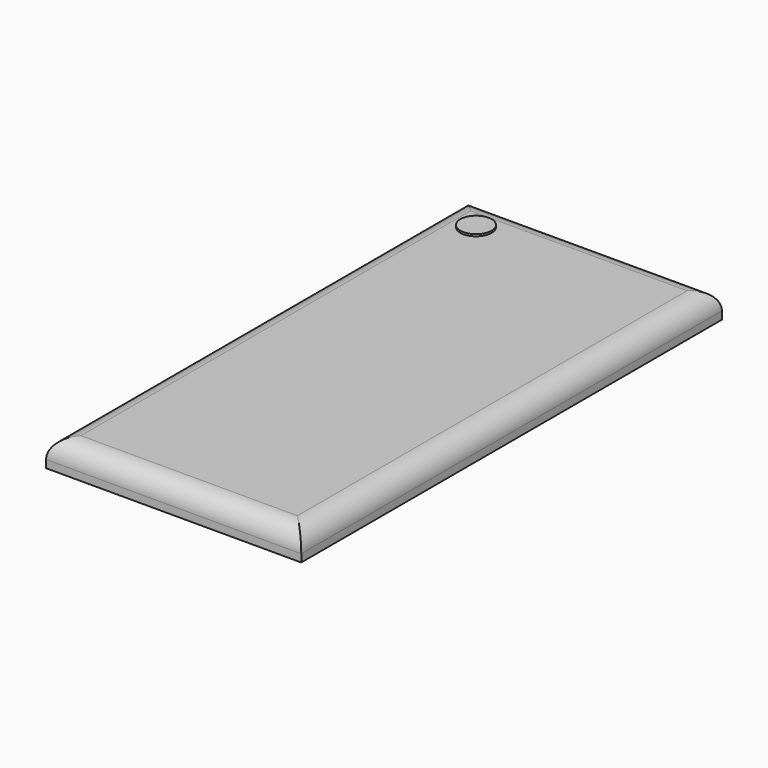
from build123d import *

# Parameters (mm, degrees)
F0_W     = 67.056
F0_H     = 138.176
F1_DEPTH = 7.112
F2_R     = 5.08
F3_R     = 4.112792
F4_DEPTH = 0.508
F5_W     = 60.855792
F5_H     = 107.066445
F6_DEPTH = 0.762


with BuildPart() as f1:
    # F0 (on Top) → F1 (new body)
    with BuildSketch(Plane.XY):
        with Locations((5.221646, 24.647108)):
            Rectangle(F0_W, F0_H)
    extrude(amount=F1_DEPTH)

    # F2
    f2_edges = [f1.edges().sort_by_distance(p)[0] for p in [
        (38.749646, 24.647108, 7.112),
        (5.221646, -44.440892, 7.112),
        (-28.306354, 24.647108, 7.112),
        (5.221646, 93.735108, 7.112),
    ]]
    fillet(f2_edges, radius=F2_R)

    # F3 (on face) → F4 (join)
    with BuildSketch(Plane.XY.offset(7.112)):
        with Locations((-17.820586, 83.663628)):
            Circle(F3_R)
    extrude(amount=F4_DEPTH)

    # F5 (on face) → F6 (cut)
    with BuildSketch(Plane(origin=(0, 0, 0), x_dir=(1, 0, 0), z_dir=(0, 0, -1))):
        with Locations((6.081841, -26.345763)):
            Rectangle(F5_W, F5_H)
    extrude(amount=-F6_DEPTH, mode=Mode.SUBTRACT)


solid = f1.part
